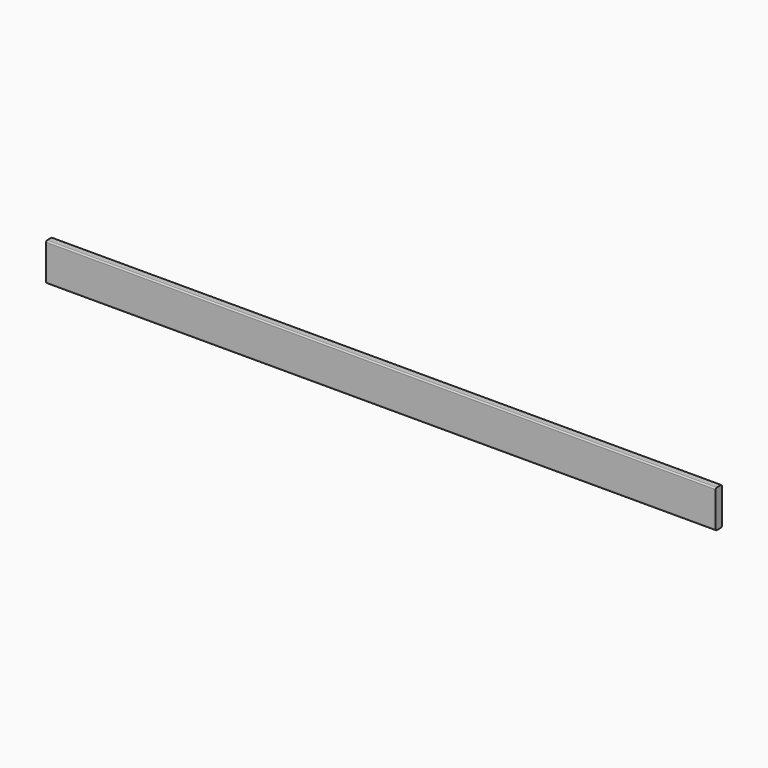
from build123d import *

# Parameters (mm, degrees)
F0_W     = 3276.6
F0_H     = 88.9
F1_DEPTH = 19.05
F2_R     = 6.35
F3_W     = 3276.6
F3_H     = 184.15
F4_DEPTH = 19.05
F5_R     = 6.35


with BuildPart() as f1:
    # F0 (on Front) → F1 (new body, symmetric)
    with BuildSketch(Plane.XZ):
        Rectangle(F0_W, F0_H)
    extrude(amount=F1_DEPTH, both=True)

    # F2
    f2_edges = [f1.edges().sort_by_distance(p)[0] for p in [
        (0, -19.05, 44.45),
        (0, 19.05, 44.45),
        (0, 19.05, -44.45),
        (0, -19.05, -44.45),
    ]]
    fillet(f2_edges, radius=F2_R)


with BuildPart() as f4:
    # F3 (on Front) → F4 (new body, symmetric)
    with BuildSketch(Plane.XZ):
        Rectangle(F3_W, F3_H)
    extrude(amount=F4_DEPTH, both=True)

    # F5
    f5_edges = [f4.edges().sort_by_distance(p)[0] for p in [
        (0, -19.05, 92.075),
        (0, 19.05, 92.075),
        (0, -19.05, -92.075),
        (0, 19.05, -92.075),
    ]]
    fillet(f5_edges, radius=F5_R)


solid = Compound([f1.part, f4.part])
